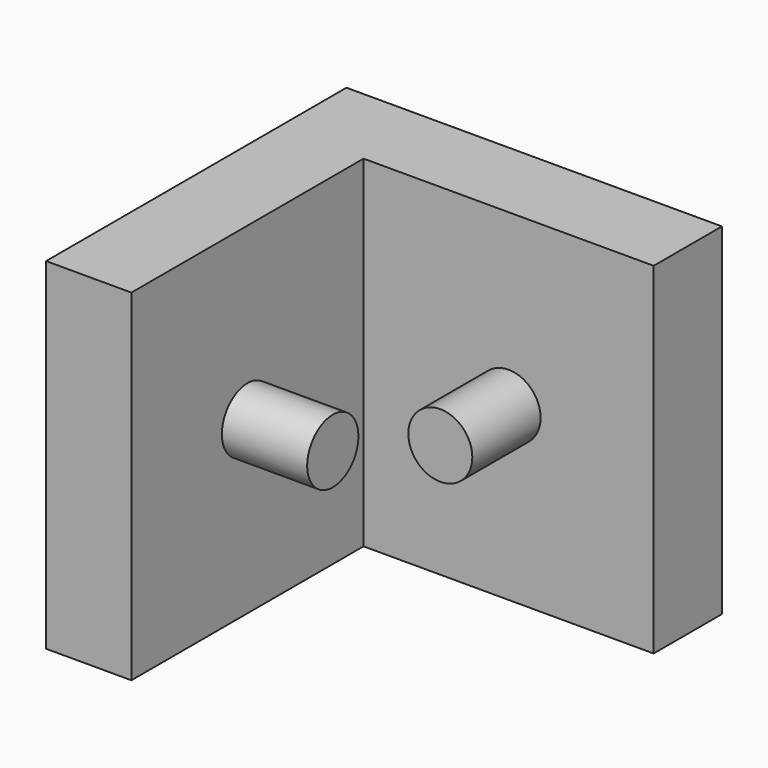
from build123d import *

# Parameters (mm, degrees)
F0_W     = 12.7
F0_H     = 21.59
F0_W_2   = 21.59
F0_H_2   = 12.7
F1_DEPTH = 50.8
F2_R     = 4.7625
F3_DEPTH = 12.7
F4_R     = 4.7625
F5_DEPTH = 12.7


with BuildPart() as f1:
    # F0 (on Top) → F1 (new body)
    with BuildSketch(Plane.XY):
        Polygon((34.29, 0), (0, 0), (0, -34.29), (12.7, -34.29), (12.7, -12.7), (34.29, -12.7), align=None)
        with Locations((6.35, -45.085)):
            Rectangle(F0_W, F0_H)
        with Locations((45.085, -6.35)):
            Rectangle(F0_W_2, F0_H_2)
    extrude(amount=F1_DEPTH)

    # F2 (on face) → F3 (join)
    with BuildSketch(Plane.XZ.offset(12.7)):
        with Locations((34.29, 25.4)):
            Circle(F2_R)
    extrude(amount=F3_DEPTH)

    # F4 (on face) → F5 (join)
    with BuildSketch(Plane.YZ.offset(12.7)):
        with Locations((-34.29, 25.4)):
            Circle(F4_R)
    extrude(amount=F5_DEPTH)


solid = f1.part
